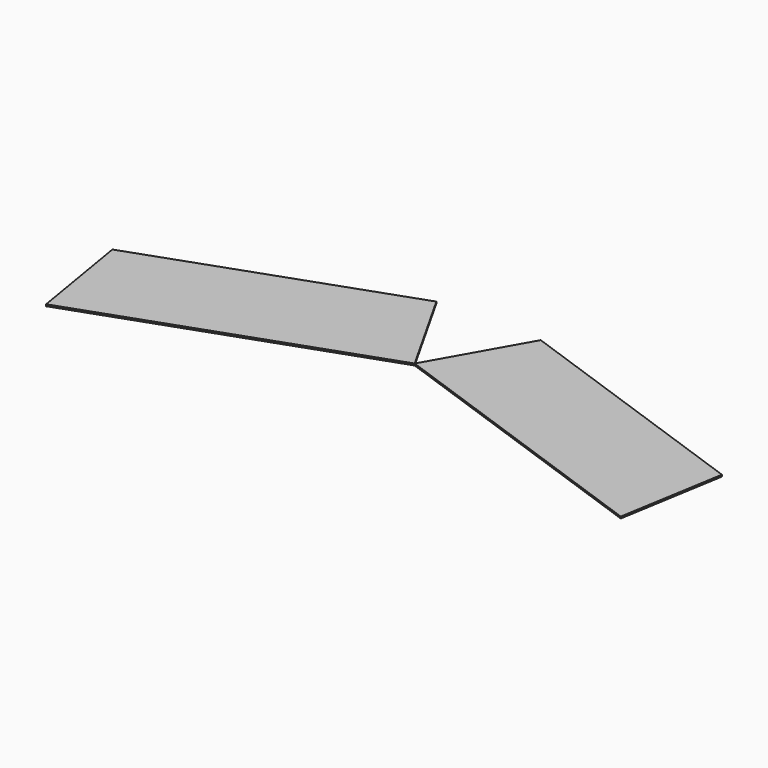
from build123d import *

# Parameters (mm, degrees)
F2_DEPTH = 1


with BuildPart() as f2:
    # F1 (on Top) → F2 (new body)
    with BuildSketch(Plane.XY):
        Polygon((-175.016766, 90.28701), (-165, 30.190481), (0, 88.5), (-29.966904, 141.546329), align=None)
    extrude(amount=F2_DEPTH)


with BuildPart() as f3_1:
    # F3: instance of F2
    add(f2.part.mirror(Plane.YZ))


solid = Compound([f2.part, f3_1.part])
